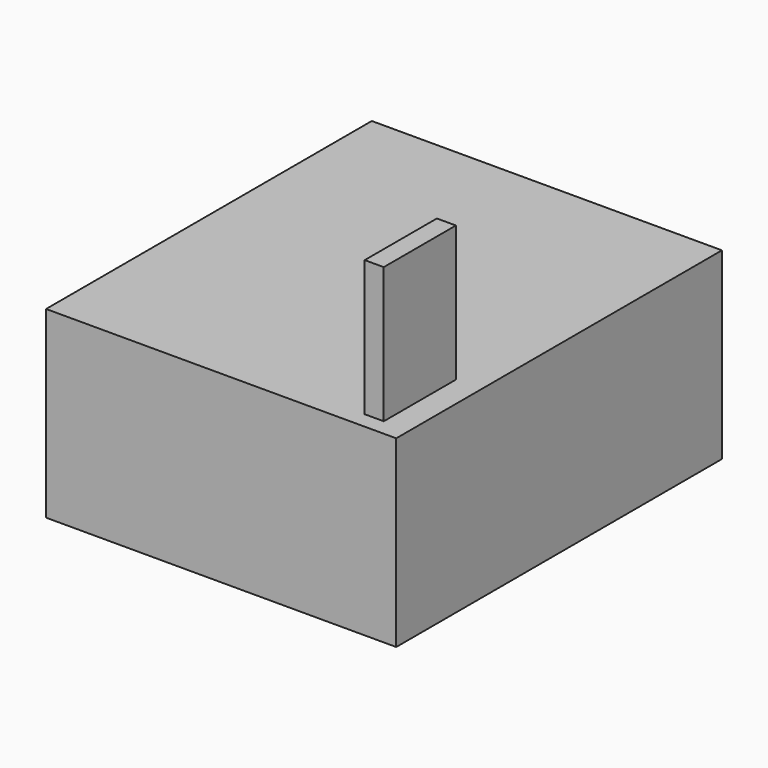
from build123d import *

# Parameters (mm, degrees)
F0_W     = 65.53819
F0_H     = 34.391328
F1_DEPTH = 76.2
F2_W     = 3.561789
F2_H     = 16.879741
F3_DEPTH = 25.4


with BuildPart() as f1:
    # F0 (on Front) → F1 (new body)
    with BuildSketch(Plane.XZ):
        Rectangle(F0_W, F0_H)
    extrude(amount=F1_DEPTH)

    # F2 (on face) → F3 (join)
    with BuildSketch(Plane.XY.offset(17.195664)):
        with Locations((26.195521, -64.690722)):
            Rectangle(F2_W, F2_H)
    extrude(amount=F3_DEPTH)


solid = f1.part
